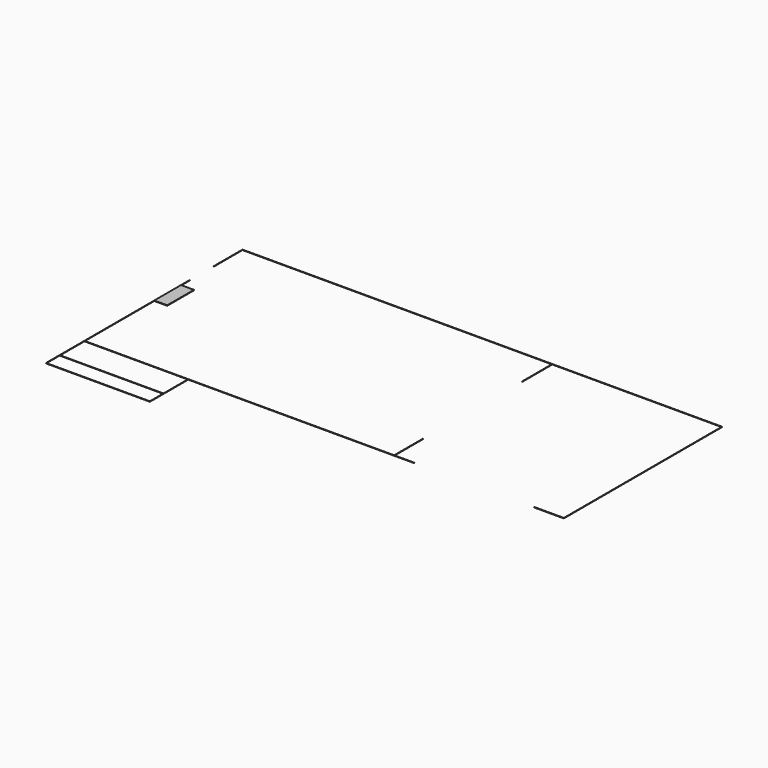
from build123d import *

# Parameters (mm, degrees)
F0_W     = 207.99
F0_H     = 33.99
F0_H_2   = 62
F1_DEPTH = 1


with BuildPart() as f1:
    # F0 (on Top) → F1 (new body)
    with BuildSketch(Plane.XY):
        Polygon((104.117418, 73.02), (104.117418, 1.02), (-308.772582, 1.02), (-308.782582, 1.02), (-516.772582, 1.02), (-516.772582, 176.02), (-490.782582, 176.02), (-490.782582, 243.02), (-516.772582, 243.02), (-516.772582, 266), (-516.782582, 266), (-516.782582, 240.872535), (-516.782582, 240.870627), (-516.782582, -95), (-308.782582, -95), (-308.772582, -95), (-308.772582, 1.01), (104.127418, 1.01), (145.127418, 1.01), (145.127418, 1.02), (104.127418, 1.02), (104.127418, 73.02), align=None)
        with Locations((-412.777582, -77.995)):
            Rectangle(F0_W, F0_H, mode=Mode.SUBTRACT)
        with Locations((-412.777582, -29.99)):
            Rectangle(F0_W, F0_H_2, mode=Mode.SUBTRACT)
        Polygon((104.117418, 397.02), (104.117418, 321.02), (104.127418, 321.02), (104.127418, 397.02), (444.117418, 397.02), (444.117418, 1.02), (384.127418, 1.02), (384.127418, 1.01), (444.127418, 1.01), (444.127418, 397.03), (-516.782582, 397.03), (-516.782582, 324.02), (-516.772582, 324.02), (-516.772582, 397.02), align=None)
    extrude(amount=F1_DEPTH)


solid = f1.part
